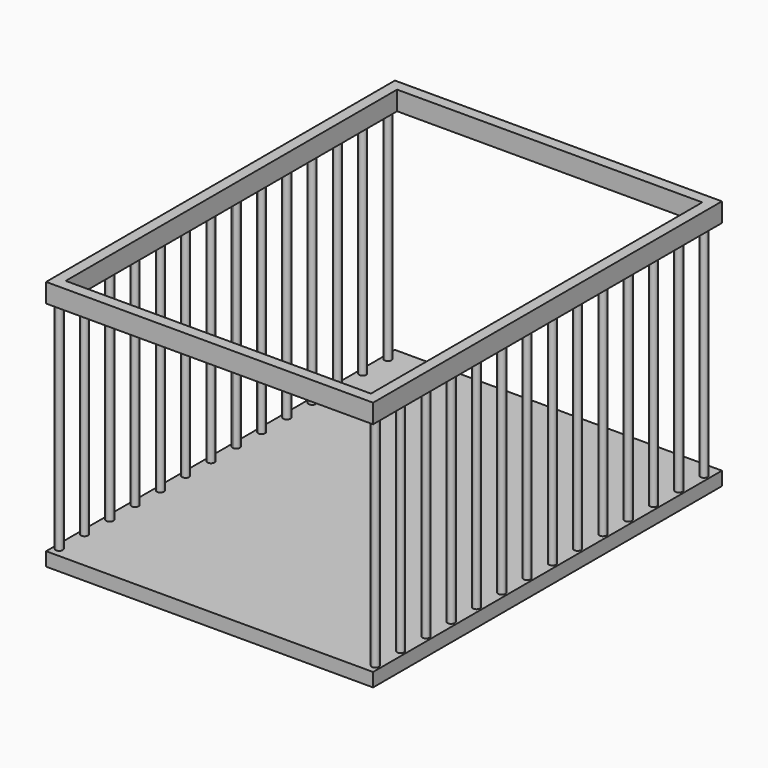
from build123d import *

# Parameters (mm, degrees)
F0_W     = 600
F0_H     = 800
F0_R     = 6.552392
F0_W_2   = 560
F0_H_2   = 760
F1_DEPTH = 35
F2_R     = 6.552392
F3_DEPTH = 400
F4_W     = 600
F4_H     = 800
F5_DEPTH = 25


with BuildPart() as f1:
    # F0 (on Top) → F1 (new body)
    with BuildSketch(Plane.XY):
        with Locations((-7, -51)):
            Rectangle(F0_W, F0_H)
        with Locations((-297, -433.404595)):
            Circle(F0_R, mode=Mode.SUBTRACT)
        with Locations((-297, -375.404595)):
            Circle(F0_R, mode=Mode.SUBTRACT)
        with Locations((-297, -317.404595)):
            Circle(F0_R, mode=Mode.SUBTRACT)
        with Locations((-297, -259.404595)):
            Circle(F0_R, mode=Mode.SUBTRACT)
        with Locations((-297, -201.404595)):
            Circle(F0_R, mode=Mode.SUBTRACT)
        with Locations((-297, -143.404595)):
            Circle(F0_R, mode=Mode.SUBTRACT)
        with Locations((-297, -85.404595)):
            Circle(F0_R, mode=Mode.SUBTRACT)
        with Locations((283, -433.404595)):
            Circle(F0_R, mode=Mode.SUBTRACT)
        with Locations((283, -375.404595)):
            Circle(F0_R, mode=Mode.SUBTRACT)
        with Locations((283, -317.404595)):
            Circle(F0_R, mode=Mode.SUBTRACT)
        with Locations((283, -259.404595)):
            Circle(F0_R, mode=Mode.SUBTRACT)
        with Locations((283, -201.404595)):
            Circle(F0_R, mode=Mode.SUBTRACT)
        with Locations((283, -143.404595)):
            Circle(F0_R, mode=Mode.SUBTRACT)
        with Locations((283, -85.404595)):
            Circle(F0_R, mode=Mode.SUBTRACT)
        with Locations((-297, -27.404595)):
            Circle(F0_R, mode=Mode.SUBTRACT)
        with Locations((-297, 30.595405)):
            Circle(F0_R, mode=Mode.SUBTRACT)
        with Locations((-297, 88.595405)):
            Circle(F0_R, mode=Mode.SUBTRACT)
        with Locations((-297, 146.595405)):
            Circle(F0_R, mode=Mode.SUBTRACT)
        with Locations((-297, 204.595405)):
            Circle(F0_R, mode=Mode.SUBTRACT)
        with Locations((-297, 262.595405)):
            Circle(F0_R, mode=Mode.SUBTRACT)
        with Locations((-297, 320.595405)):
            Circle(F0_R, mode=Mode.SUBTRACT)
        with Locations((-7, -51)):
            Rectangle(F0_W_2, F0_H_2, mode=Mode.SUBTRACT)
        with Locations((283, -27.404595)):
            Circle(F0_R, mode=Mode.SUBTRACT)
        with Locations((283, 30.595405)):
            Circle(F0_R, mode=Mode.SUBTRACT)
        with Locations((283, 88.595405)):
            Circle(F0_R, mode=Mode.SUBTRACT)
        with Locations((283, 146.595405)):
            Circle(F0_R, mode=Mode.SUBTRACT)
        with Locations((283, 204.595405)):
            Circle(F0_R, mode=Mode.SUBTRACT)
        with Locations((283, 262.595405)):
            Circle(F0_R, mode=Mode.SUBTRACT)
        with Locations((283, 320.595405)):
            Circle(F0_R, mode=Mode.SUBTRACT)
        with Locations((283, -433.404595)):
            Circle(F0_R)
        with Locations((283, -375.404595)):
            Circle(F0_R)
        with Locations((283, -317.404595)):
            Circle(F0_R)
        with Locations((283, -259.404595)):
            Circle(F0_R)
        with Locations((283, -201.404595)):
            Circle(F0_R)
        with Locations((283, -143.404595)):
            Circle(F0_R)
        with Locations((283, -85.404595)):
            Circle(F0_R)
        with Locations((283, -27.404595)):
            Circle(F0_R)
        with Locations((283, 30.595405)):
            Circle(F0_R)
        with Locations((283, 88.595405)):
            Circle(F0_R)
        with Locations((283, 146.595405)):
            Circle(F0_R)
        with Locations((283, 204.595405)):
            Circle(F0_R)
        with Locations((283, 262.595405)):
            Circle(F0_R)
        with Locations((283, 320.595405)):
            Circle(F0_R)
        with Locations((-297, 320.595405)):
            Circle(F0_R)
        with Locations((-297, 262.595405)):
            Circle(F0_R)
        with Locations((-297, 204.595405)):
            Circle(F0_R)
        with Locations((-297, 146.595405)):
            Circle(F0_R)
        with Locations((-297, 88.595405)):
            Circle(F0_R)
        with Locations((-297, 30.595405)):
            Circle(F0_R)
        with Locations((-297, -27.404595)):
            Circle(F0_R)
        with Locations((-297, -85.404595)):
            Circle(F0_R)
        with Locations((-297, -143.404595)):
            Circle(F0_R)
        with Locations((-297, -201.404595)):
            Circle(F0_R)
        with Locations((-297, -259.404595)):
            Circle(F0_R)
        with Locations((-297, -317.404595)):
            Circle(F0_R)
        with Locations((-297, -375.404595)):
            Circle(F0_R)
        with Locations((-297, -433.404595)):
            Circle(F0_R)
    extrude(amount=-F1_DEPTH)

    # F2 (on face) → F3 (join)
    with BuildSketch(Plane(origin=(0, 0, -35), x_dir=(1, 0, 0), z_dir=(0, 0, -1))):
        with Locations((-297, 433.404595)):
            Circle(F2_R)
        with Locations((-297, 143.404595)):
            Circle(F2_R)
        with Locations((-297, 375.404595)):
            Circle(F2_R)
        with Locations((-297, -204.595405)):
            Circle(F2_R)
        with BuildLine():
            ThreePointArc((-297, 33.956987), (-303.552392, 27.404595), (-297, 20.852203))
            Line((-297, 20.852203), (-297, 27.404595))
            Line((-297, 27.404595), (-297, 33.956987))
        make_face()
        with Locations((-297, -262.595405)):
            Circle(F2_R)
        with Locations((-297, -146.595405)):
            Circle(F2_R)
        with Locations((-297, 259.404595)):
            Circle(F2_R)
        with Locations((283, -88.595405)):
            Circle(F2_R)
        with BuildLine():
            ThreePointArc((-297, -24.043013), (-301.633241, -35.228646), (-290.447608, -30.595405))
            ThreePointArc((-290.447608, -30.595405), (-292.366759, -25.962164), (-297, -24.043013))
        make_face()
        with Locations((283, 85.404595)):
            Circle(F2_R)
        with Locations((283, -320.595405)):
            Circle(F2_R)
        with Locations((283, -204.595405)):
            Circle(F2_R)
        with Locations((283, -262.595405)):
            Circle(F2_R)
        with Locations((283, 143.404595)):
            Circle(F2_R)
        with Locations((283, 259.404595)):
            Circle(F2_R)
        with Locations((283, -146.595405)):
            Circle(F2_R)
        with Locations((283, 317.404595)):
            Circle(F2_R)
        with Locations((283, 201.404595)):
            Circle(F2_R)
        with Locations((283, -30.595405)):
            Circle(F2_R)
        with Locations((283, 27.404595)):
            Circle(F2_R)
        with BuildLine():
            ThreePointArc((-290.447608, 85.404595), (-301.633241, 90.037836), (-297, 78.852203))
            ThreePointArc((-297, 78.852203), (-292.366759, 80.771354), (-290.447608, 85.404595))
        make_face()
        with Locations((-297, 201.404595)):
            Circle(F2_R)
        with Locations((-297, -88.595405)):
            Circle(F2_R)
        with Locations((-297, 317.404595)):
            Circle(F2_R)
        with Locations((-297, -320.595405)):
            Circle(F2_R)
        with BuildLine():
            Line((-297, 27.404595), (-297, 20.852203))
            ThreePointArc((-297, 20.852203), (-292.366759, 22.771354), (-290.447608, 27.404595))
            ThreePointArc((-290.447608, 27.404595), (-292.366759, 32.037836), (-297, 33.956987))
            Line((-297, 33.956987), (-297, 27.404595))
        make_face()
        with Locations((283, 433.404595)):
            Circle(F2_R)
        with Locations((283, 375.404595)):
            Circle(F2_R)
    extrude(amount=F3_DEPTH)

    # F4 (on face) → F5 (join)
    with BuildSketch(Plane(origin=(0, 0, -435), x_dir=(1, 0, 0), z_dir=(0, 0, -1))):
        with Locations((-7, 51)):
            Rectangle(F4_W, F4_H)
    extrude(amount=F5_DEPTH)


solid = f1.part
